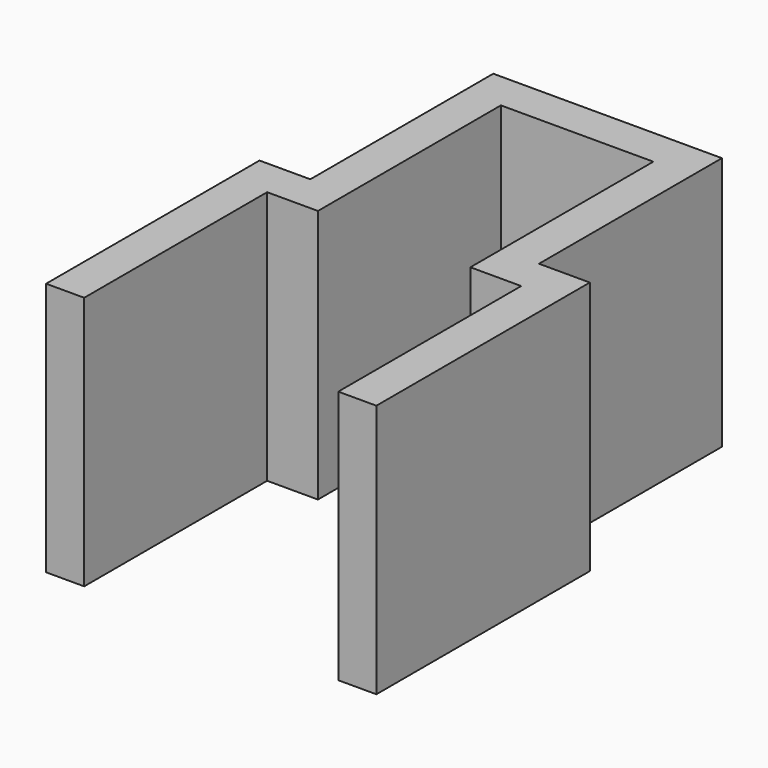
from build123d import *

# Parameters (mm, degrees)
F1_DEPTH = 20


with BuildPart() as f1:
    # F0 (on Top) → F1 (new body)
    with BuildSketch(Plane.XY):
        Polygon((-6, -9), (-6, 9), (6, 9), (6, -9), (10, -9), (10, -27), (13, -27), (13, -6), (9, -6), (9, 12), (-9, 12), (-9, -6), (-13, -6), (-13, -27), (-10, -27), (-10, -9), align=None)
    extrude(amount=F1_DEPTH)


solid = f1.part
